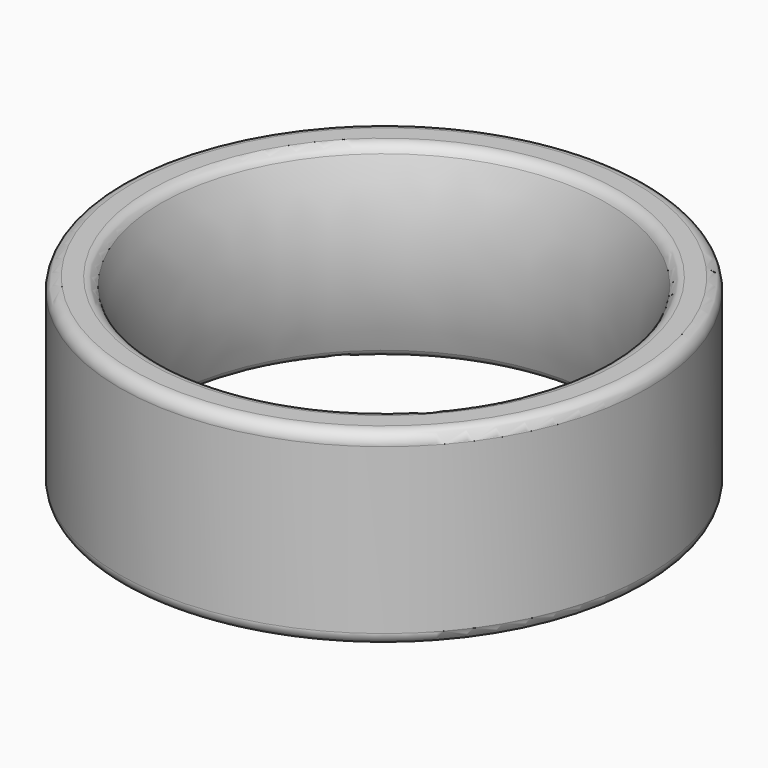
from build123d import *


with BuildPart() as f1:
    # F0 (on Front) → F1 (revolve)
    with BuildSketch(Plane.XZ):
        with BuildLine():
            ThreePointArc((-9.3945671041, 7.608697411), (-9.5809203898, 7.8472895911), (-9.8699114928, 7.9375))
            Line((-9.8699114928, 7.9375), (-10.6045, 7.9375))
            ThreePointArc((-10.6045, 7.9375), (-10.9637102448, 7.7887102448), (-11.1125, 7.4295))
            Line((-11.1125, 7.4295), (-11.1125, 0.508))
            ThreePointArc((-11.1125, 0.508), (-10.9637102448, 0.1487897552), (-10.6045, 0))
            Line((-10.6045, 0), (-9.8699114928, 0))
            ThreePointArc((-9.8699114928, 0), (-9.5809203898, 0.0902104089), (-9.3945671041, 0.328802589))
            ThreePointArc((-9.3945671041, 0.328802589), (-8.73125, 3.96875), (-9.3945671041, 7.608697411))
        make_face()
    revolve(axis=Axis((0, 0, 3.96875), (0, 0, 1)))


solid = f1.part
